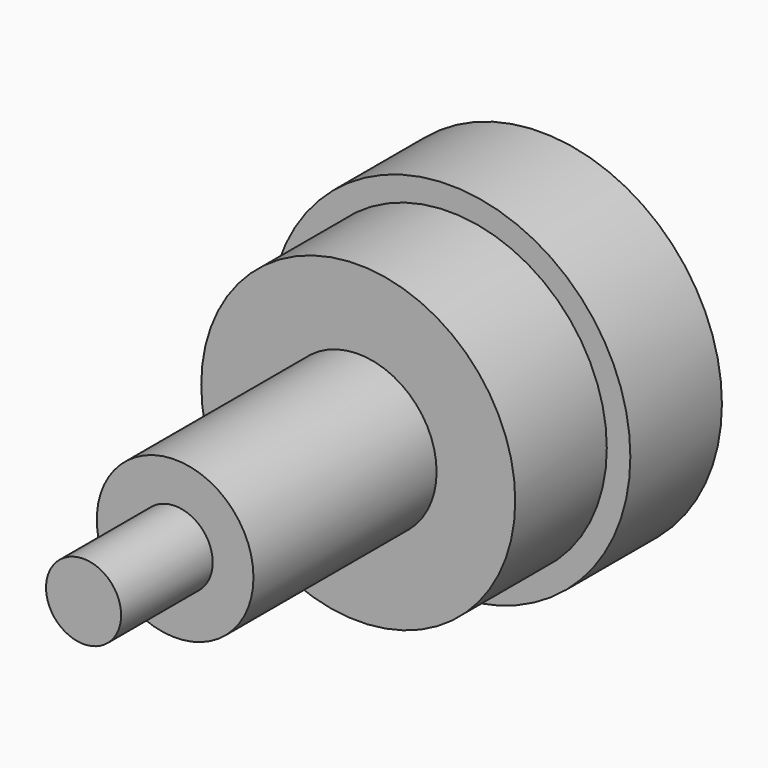
from build123d import *

# Parameters (mm, degrees)
F0_R     = 40.072412
F0_R_2   = 34.84556
F1_DEPTH = 25.4
F0_R_3   = 17.387916
F2_DEPTH = 50.8
F0_R_4   = 8.335342
F3_DEPTH = 101.6
F4_DEPTH = 127


with BuildPart() as f1:
    # F0 (on Front) → F1 (new body)
    with BuildSketch(Plane.XZ):
        Circle(F0_R)
        Circle(F0_R_2, mode=Mode.SUBTRACT)
    extrude(amount=F1_DEPTH)

    # F0 (on Front) → F2 (join)
    with BuildSketch(Plane.XZ):
        Circle(F0_R_2)
        Circle(F0_R_3, mode=Mode.SUBTRACT)
    extrude(amount=F2_DEPTH)

    # F0 (on Front) → F3 (join)
    with BuildSketch(Plane.XZ):
        Circle(F0_R_3)
        Circle(F0_R_4, mode=Mode.SUBTRACT)
    extrude(amount=F3_DEPTH)

    # F0 (on Front) → F4 (join)
    with BuildSketch(Plane.XZ):
        Circle(F0_R_4)
    extrude(amount=F4_DEPTH)


solid = f1.part
